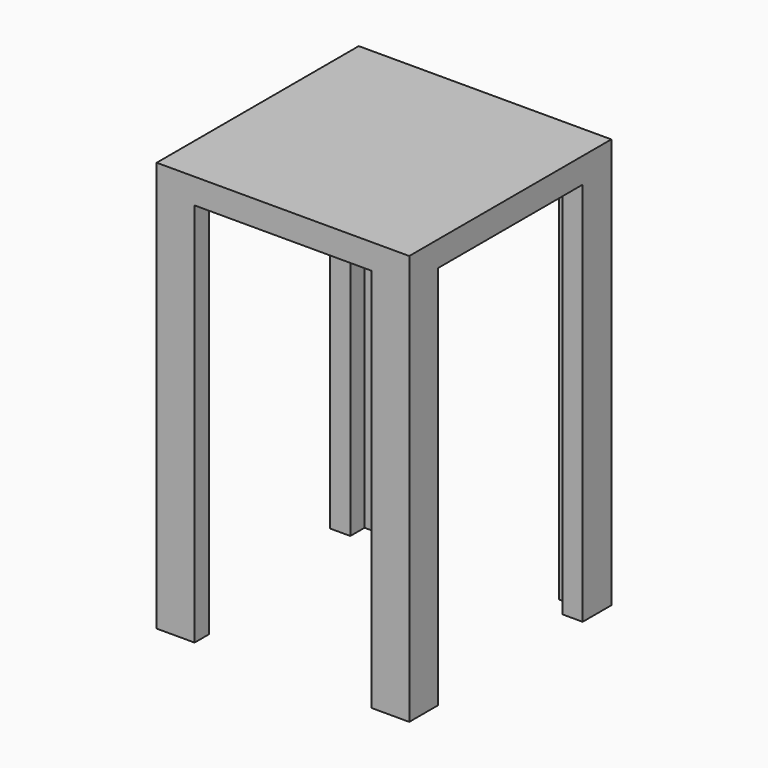
from build123d import *

# Parameters (mm, degrees)
F1_W     = 100
F1_H     = 100
F2_DEPTH = 10
F4_DEPTH = 152.4


with BuildPart() as f2:
    # F1 (on offset) → F2 (new body)
    with BuildSketch(Plane.XY.offset(152.4)):
        Rectangle(F1_W, F1_H)
    extrude(amount=F2_DEPTH)

    # F3 (on face) → F4 (join, through all)
    with BuildSketch(Plane(origin=(0, 0, 152.4), x_dir=(1, 0, 0), z_dir=(0, 0, -1))):
        Polygon((-50, 50), (-50, 35.819672), (-42, 35.819672), (-42, 42.874407), (-35, 42.874407), (-35, 50), align=None)
        Polygon((42, 35.819672), (50, 35.819672), (50, 50), (35, 50), (35, 42.874407), (42, 42.874407), align=None)
        Polygon((50, -35.819672), (42, -35.819672), (42, -42.874407), (35, -42.874407), (35, -50), (50, -50), align=None)
        Polygon((-42, -35.819672), (-50, -35.819672), (-50, -50), (-35, -50), (-35, -42.874407), (-42, -42.874407), align=None)
    extrude(amount=F4_DEPTH)


solid = f2.part
